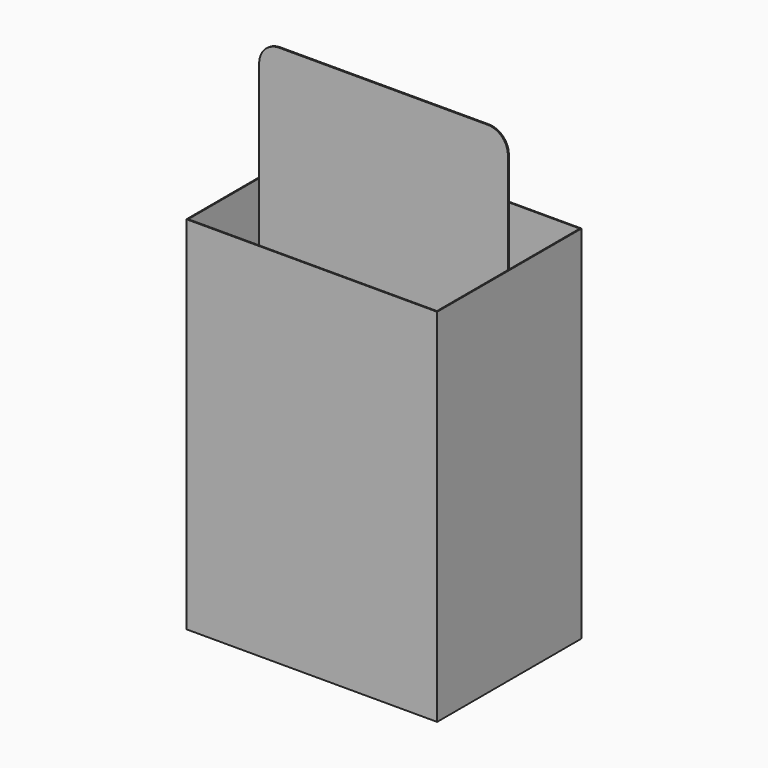
from build123d import *

# Parameters (mm, degrees)
F0_W     = 635
F0_H     = 457.2
F1_DEPTH = 914.4
F2_T     = -2.54
F3_W     = 629.92
F3_H     = 3.175
F4_DEPTH = 1219.2
F5_R     = 50.8


with BuildPart() as f1:
    # F0 (on Top) → F1 (new body)
    with BuildSketch(Plane.XY):
        Rectangle(F0_W, F0_H)
    extrude(amount=F1_DEPTH)

    # F2
    f2_openings = [f1.faces().sort_by_distance(p)[0] for p in [
        (0, 0, 914.4),
    ]]
    offset(amount=F2_T, openings=f2_openings)

    # F3 (on face) → F4 (join)
    with BuildSketch(Plane.XY.offset(2.54)):
        Rectangle(F3_W, F3_H)
    extrude(amount=F4_DEPTH)

    # F5
    f5_edges = [f1.edges().sort_by_distance(p)[0] for p in [
        (314.96, 0, 1221.74),
        (-314.96, 0, 1221.74),
    ]]
    fillet(f5_edges, radius=F5_R)


solid = f1.part
